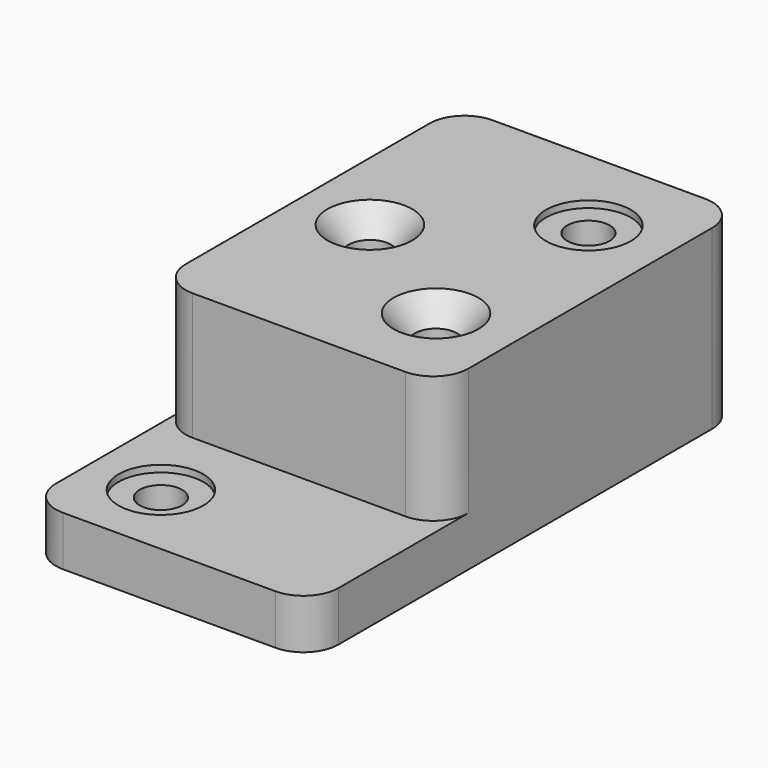
from build123d import *

# Parameters (mm, degrees)
F0_W           = 127
F0_H           = 168.402
F1_DEPTH       = 79.502
F0_H_2         = 72.898
F2_DEPTH       = 22.352
F3_R           = 15.748
F5_D           = 19.05
F5_CSINK_D     = 38.1
F5_CSINK_ANGLE = 82
F6_D           = 19.05
F6_CBORE_D     = 38.1
F6_CBORE_DEPTH = 3.048
F8_D           = 19.05
F8_CBORE_D     = 38.1
F8_CBORE_DEPTH = 3.048


with BuildPart() as f1:
    # F0 (on Top) → F1 (new body)
    with BuildSketch(Plane.XY):
        with Locations((0, 84.201)):
            Rectangle(F0_W, F0_H)
    extrude(amount=F1_DEPTH)

    # F0 (on Top) → F2 (join)
    with BuildSketch(Plane.XY):
        with Locations((0, -36.449)):
            Rectangle(F0_W, F0_H_2)
    extrude(amount=F2_DEPTH)

    # F3
    f3_edges = [f1.edges().sort_by_distance(p)[0] for p in [
        (63.5, 0, 50.927),
        (-63.5, 0, 50.927),
        (63.5, -72.898, 11.176),
        (-63.5, -72.898, 11.176),
        (63.5, 168.402, 39.751),
        (-63.5, 168.402, 39.751),
    ]]
    fillet(f3_edges, radius=F3_R)

    # F5 (through all)
    with Locations(Plane.XY.offset(79.502)):
        with Locations((-31.75, 79.502), (28.448, 41.402)):
            CounterSinkHole(F5_D / 2, F5_CSINK_D / 2, counter_sink_angle=F5_CSINK_ANGLE)

    # F6 (through all)
    with Locations(Plane.XY.offset(79.502)):
        with Locations((28.448, 127)):
            CounterBoreHole(F6_D / 2, F6_CBORE_D / 2, F6_CBORE_DEPTH)

    # F8 (through all)
    with Locations(Plane.XY.offset(22.352)):
        with Locations((-31.75, -37.846)):
            CounterBoreHole(F8_D / 2, F8_CBORE_D / 2, F8_CBORE_DEPTH)


solid = f1.part
